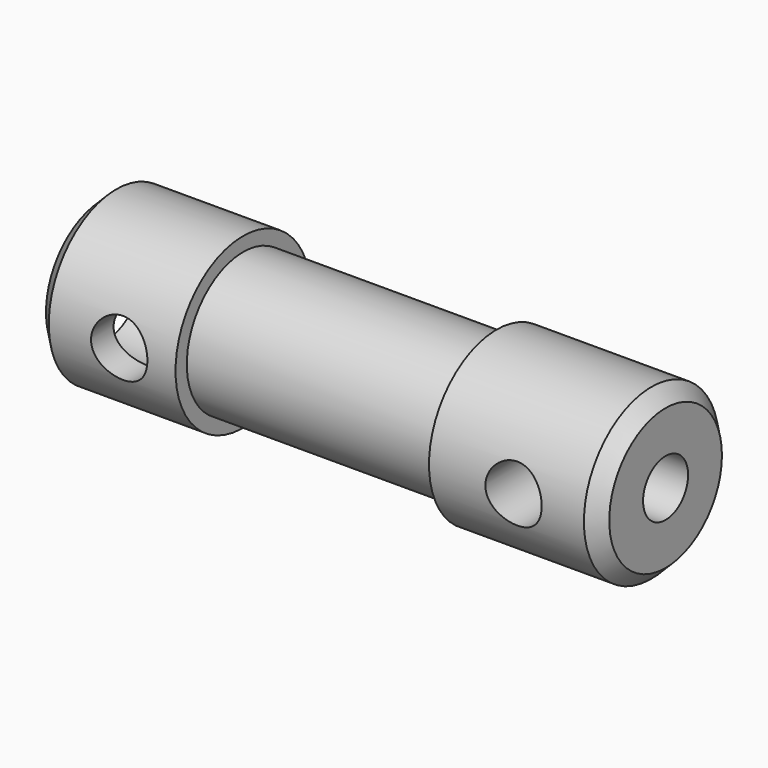
from build123d import *

# Parameters (mm, degrees)
F0_R      = 2.5
F0_R_2    = 2
F1_DEPTH  = 20
F0_R_3    = 3
F2_DEPTH  = 5
F3_DEPTH  = 10
F4_R      = 3
F4_R_2    = 2.5
F5_DEPTH  = 6
F4_R_3    = 1
F6_DEPTH  = 10
F7_SIZE   = 0.5
F9_DEPTH  = 25
F10_DEPTH = 25


with BuildPart() as f1:
    # F0 (on Right) → F1 (new body)
    with BuildSketch(Plane.YZ):
        Circle(F0_R)
        Circle(F0_R_2, mode=Mode.SUBTRACT)
        Circle(F0_R_2)
    extrude(amount=F1_DEPTH)

    # F0 (on Right) → F2 (join)
    with BuildSketch(Plane.YZ):
        Circle(F0_R_3)
        Circle(F0_R, mode=Mode.SUBTRACT)
    extrude(amount=F2_DEPTH)

    # F0 (on Right) → F3 (cut)
    with BuildSketch(Plane.YZ):
        Circle(F0_R_2)
    extrude(amount=F3_DEPTH, mode=Mode.SUBTRACT)

    # F4 (on face) → F5 (join)
    with BuildSketch(Plane.YZ.offset(20)):
        Circle(F4_R)
        Circle(F4_R_2, mode=Mode.SUBTRACT)
    extrude(amount=-F5_DEPTH)

    # F4 (on face) → F6 (cut)
    with BuildSketch(Plane.YZ.offset(20)):
        Circle(F4_R_3)
    extrude(amount=-F6_DEPTH, mode=Mode.SUBTRACT)

    # F7
    f7_edges = [f1.edges().sort_by_distance(p)[0] for p in [
        (20, -3, 0),
        (0, -3, 0),
    ]]
    chamfer(f7_edges, length=F7_SIZE)

    # F8 (on Front) → F9 (cut)
    with BuildSketch(Plane.XZ):
        with BuildLine():
            ThreePointArc((4, 0), (3, 1), (2, 0))
            Line((2, 0), (4, 0))
        make_face()
        with BuildLine():
            Line((4, 0), (2, 0))
            ThreePointArc((2, 0), (3, -1), (4, 0))
        make_face()
        with BuildLine():
            Line((18, 0), (16, 0))
            ThreePointArc((16, 0), (17, -1), (18, 0))
        make_face()
        with BuildLine():
            ThreePointArc((18, 0), (17, 1), (16, 0))
            Line((16, 0), (18, 0))
        make_face()
    extrude(amount=-F9_DEPTH, mode=Mode.SUBTRACT)

    # F8 (on Front) → F10 (cut)
    with BuildSketch(Plane.XZ):
        with BuildLine():
            ThreePointArc((18, 0), (17, 1), (16, 0))
            Line((16, 0), (18, 0))
        make_face()
        with BuildLine():
            Line((18, 0), (16, 0))
            ThreePointArc((16, 0), (17, -1), (18, 0))
        make_face()
        with BuildLine():
            ThreePointArc((4, 0), (3, 1), (2, 0))
            Line((2, 0), (4, 0))
        make_face()
        with BuildLine():
            Line((4, 0), (2, 0))
            ThreePointArc((2, 0), (3, -1), (4, 0))
        make_face()
    extrude(amount=F10_DEPTH, mode=Mode.SUBTRACT)


solid = f1.part
